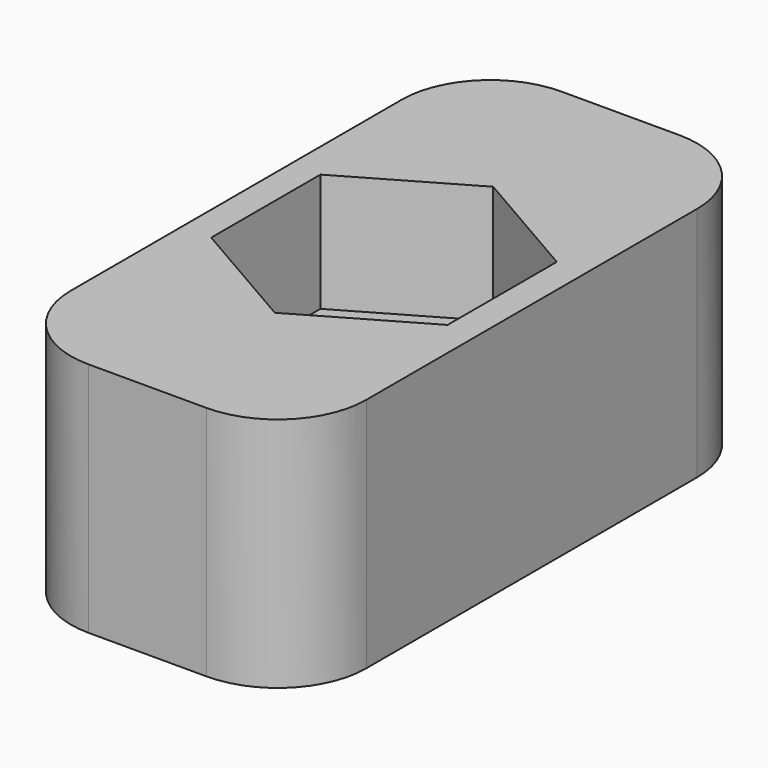
from build123d import *

# Parameters (mm, degrees)
F1_DEPTH = 8
F2_R     = 2.5
F3_DEPTH = 25
F5_DEPTH = 4


with BuildPart() as f1:
    # F0 (on Top) → F1 (new body)
    with BuildSketch(Plane.XY):
        with BuildLine():
            Line((-2, -10), (2, -10))
            ThreePointArc((2, -10), (4.12132, -9.12132), (5, -7))
            Line((5, -7), (5, 7))
            ThreePointArc((5, 7), (4.12132, 9.12132), (2, 10))
            Line((2, 10), (-2, 10))
            ThreePointArc((-2, 10), (-4.12132, 9.12132), (-5, 7))
            Line((-5, 7), (-5, -7))
            ThreePointArc((-5, -7), (-4.12132, -9.12132), (-2, -10))
        make_face()
    extrude(amount=F1_DEPTH)

    # F2 (on face) → F3 (cut)
    with BuildSketch(Plane.XY.offset(8)):
        Circle(F2_R)
    extrude(amount=-F3_DEPTH, mode=Mode.SUBTRACT)

    # F4 (on face) → F5 (cut)
    with BuildSketch(Plane.XY.offset(8)):
        Polygon((0, -4.618802), (4, -2.309401), (4, 2.309401), (0, 4.618802), (-4, 2.309401), (-4, -2.309401), align=None)
    extrude(amount=-F5_DEPTH, mode=Mode.SUBTRACT)


solid = f1.part
